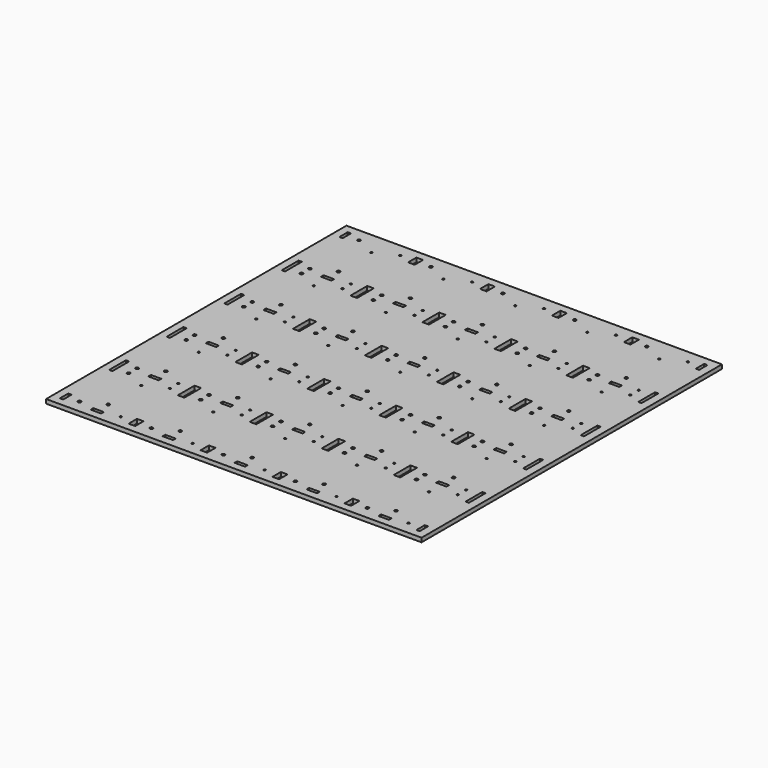
from build123d import *

# Parameters (mm, degrees)
SKETCH_W                      = 365.8
SKETCH_H                      = 365.8
PAD_DEPTH                     = 4
SKETCH001_R                   = 1.5
SKETCH001_R_2                 = 1
POCKET_DEPTH                  = 1038.67057
SKETCH001_LINEARPATTERN_2_R   = 1.5
SKETCH001_LINEARPATTERN_2_R_2 = 1
POCKET_LINEARPATTERN_2_DEPTH  = 1038.67057
SKETCH001_LINEARPATTERN_3_R   = 1.5
SKETCH001_LINEARPATTERN_3_R_2 = 1
POCKET_LINEARPATTERN_3_DEPTH  = 1038.67057
SKETCH001_LINEARPATTERN_4_R   = 1.5
SKETCH001_LINEARPATTERN_4_R_2 = 1
POCKET_LINEARPATTERN_4_DEPTH  = 1038.67057
SKETCH001_LINEARPATTERN_5_R   = 1.5
SKETCH001_LINEARPATTERN_5_R_2 = 1
POCKET_LINEARPATTERN_5_DEPTH  = 1038.67057
LINEARPATTERN001_COUNT        = 5
LINEARPATTERN001_PITCH        = 70.1


with BuildPart() as part:
    # Sketch → Pad (new body)
    with BuildSketch(Plane.XY):
        with Locations((182.9, 182.9)):
            Rectangle(SKETCH_W, SKETCH_H)
    extrude(amount=PAD_DEPTH)

    # Sketch001 (on Face6 of Pad) → Pocket (cut, through all)
    with BuildSketch(Plane.XY.offset(4)):
        with Locations((22.5, 12.6)):
            Circle(SKETCH001_R)
        with Locations((42.55, 22.5)):
            Circle(SKETCH001_R)
        with Locations((22.5, 72.5)):
            Circle(SKETCH001_R)
        with Locations((62.6, 72.5)):
            Circle(SKETCH001_R_2)
        with Locations((62.6, 12.6)):
            Circle(SKETCH001_R_2)
        with Locations((42.55, 62.6)):
            Circle(SKETCH001_R_2)
        Polygon((7.5, 77.6), (10.7, 77.6), (10.7, 67.4), (7.5, 67.4), (7.5, 72.5), align=None)
        Polygon((7.5, 7.5), (10.7, 7.5), (10.7, 17.7), (7.5, 17.7), (7.5, 12.6), align=None)
        Polygon((77.6, 77.6), (74.4, 77.6), (74.4, 67.4), (77.6, 67.4), (77.6, 72.5), align=None)
        Polygon((77.6, 7.5), (74.4, 7.5), (74.4, 17.7), (77.6, 17.7), (77.6, 12.6), align=None)
        Polygon((37.45, 10.7), (47.65, 10.7), (47.65, 7.5), (42.55, 7.5), (37.45, 7.5), align=None)
    pocket = extrude(amount=-POCKET_DEPTH, mode=Mode.SUBTRACT)

    # Sketch001 LinearPattern 2 → Pocket LinearPattern 2 (cut, through all)
    with BuildSketch(Plane(origin=(70.1, 0, 4), x_dir=(1, 0, 0), z_dir=(0, 0, 1))):
        with Locations((22.5, 12.6)):
            Circle(SKETCH001_LINEARPATTERN_2_R)
        with Locations((42.55, 22.5)):
            Circle(SKETCH001_LINEARPATTERN_2_R)
        with Locations((22.5, 72.5)):
            Circle(SKETCH001_LINEARPATTERN_2_R)
        with Locations((62.6, 72.5)):
            Circle(SKETCH001_LINEARPATTERN_2_R_2)
        with Locations((62.6, 12.6)):
            Circle(SKETCH001_LINEARPATTERN_2_R_2)
        with Locations((42.55, 62.6)):
            Circle(SKETCH001_LINEARPATTERN_2_R_2)
        Polygon((7.5, 77.6), (10.7, 77.6), (10.7, 67.4), (7.5, 67.4), (7.5, 72.5), align=None)
        Polygon((7.5, 7.5), (10.7, 7.5), (10.7, 17.7), (7.5, 17.7), (7.5, 12.6), align=None)
        Polygon((77.6, 77.6), (74.4, 77.6), (74.4, 67.4), (77.6, 67.4), (77.6, 72.5), align=None)
        Polygon((77.6, 7.5), (74.4, 7.5), (74.4, 17.7), (77.6, 17.7), (77.6, 12.6), align=None)
        Polygon((37.45, 10.7), (47.65, 10.7), (47.65, 7.5), (42.55, 7.5), (37.45, 7.5), align=None)
    pocket_linearpattern_2 = extrude(amount=-POCKET_LINEARPATTERN_2_DEPTH, mode=Mode.SUBTRACT)

    # Sketch001 LinearPattern 3 → Pocket LinearPattern 3 (cut, through all)
    with BuildSketch(Plane(origin=(140.2, 0, 4), x_dir=(1, 0, 0), z_dir=(0, 0, 1))):
        with Locations((22.5, 12.6)):
            Circle(SKETCH001_LINEARPATTERN_3_R)
        with Locations((42.55, 22.5)):
            Circle(SKETCH001_LINEARPATTERN_3_R)
        with Locations((22.5, 72.5)):
            Circle(SKETCH001_LINEARPATTERN_3_R)
        with Locations((62.6, 72.5)):
            Circle(SKETCH001_LINEARPATTERN_3_R_2)
        with Locations((62.6, 12.6)):
            Circle(SKETCH001_LINEARPATTERN_3_R_2)
        with Locations((42.55, 62.6)):
            Circle(SKETCH001_LINEARPATTERN_3_R_2)
        Polygon((7.5, 77.6), (10.7, 77.6), (10.7, 67.4), (7.5, 67.4), (7.5, 72.5), align=None)
        Polygon((7.5, 7.5), (10.7, 7.5), (10.7, 17.7), (7.5, 17.7), (7.5, 12.6), align=None)
        Polygon((77.6, 77.6), (74.4, 77.6), (74.4, 67.4), (77.6, 67.4), (77.6, 72.5), align=None)
        Polygon((77.6, 7.5), (74.4, 7.5), (74.4, 17.7), (77.6, 17.7), (77.6, 12.6), align=None)
        Polygon((37.45, 10.7), (47.65, 10.7), (47.65, 7.5), (42.55, 7.5), (37.45, 7.5), align=None)
    pocket_linearpattern_3 = extrude(amount=-POCKET_LINEARPATTERN_3_DEPTH, mode=Mode.SUBTRACT)

    # Sketch001 LinearPattern 4 → Pocket LinearPattern 4 (cut, through all)
    with BuildSketch(Plane(origin=(210.3, 0, 4), x_dir=(1, 0, 0), z_dir=(0, 0, 1))):
        with Locations((22.5, 12.6)):
            Circle(SKETCH001_LINEARPATTERN_4_R)
        with Locations((42.55, 22.5)):
            Circle(SKETCH001_LINEARPATTERN_4_R)
        with Locations((22.5, 72.5)):
            Circle(SKETCH001_LINEARPATTERN_4_R)
        with Locations((62.6, 72.5)):
            Circle(SKETCH001_LINEARPATTERN_4_R_2)
        with Locations((62.6, 12.6)):
            Circle(SKETCH001_LINEARPATTERN_4_R_2)
        with Locations((42.55, 62.6)):
            Circle(SKETCH001_LINEARPATTERN_4_R_2)
        Polygon((7.5, 77.6), (10.7, 77.6), (10.7, 67.4), (7.5, 67.4), (7.5, 72.5), align=None)
        Polygon((7.5, 7.5), (10.7, 7.5), (10.7, 17.7), (7.5, 17.7), (7.5, 12.6), align=None)
        Polygon((77.6, 77.6), (74.4, 77.6), (74.4, 67.4), (77.6, 67.4), (77.6, 72.5), align=None)
        Polygon((77.6, 7.5), (74.4, 7.5), (74.4, 17.7), (77.6, 17.7), (77.6, 12.6), align=None)
        Polygon((37.45, 10.7), (47.65, 10.7), (47.65, 7.5), (42.55, 7.5), (37.45, 7.5), align=None)
    pocket_linearpattern_4 = extrude(amount=-POCKET_LINEARPATTERN_4_DEPTH, mode=Mode.SUBTRACT)

    # Sketch001 LinearPattern 5 → Pocket LinearPattern 5 (cut, through all)
    with BuildSketch(Plane(origin=(280.4, 0, 4), x_dir=(1, 0, 0), z_dir=(0, 0, 1))):
        with Locations((22.5, 12.6)):
            Circle(SKETCH001_LINEARPATTERN_5_R)
        with Locations((42.55, 22.5)):
            Circle(SKETCH001_LINEARPATTERN_5_R)
        with Locations((22.5, 72.5)):
            Circle(SKETCH001_LINEARPATTERN_5_R)
        with Locations((62.6, 72.5)):
            Circle(SKETCH001_LINEARPATTERN_5_R_2)
        with Locations((62.6, 12.6)):
            Circle(SKETCH001_LINEARPATTERN_5_R_2)
        with Locations((42.55, 62.6)):
            Circle(SKETCH001_LINEARPATTERN_5_R_2)
        Polygon((7.5, 77.6), (10.7, 77.6), (10.7, 67.4), (7.5, 67.4), (7.5, 72.5), align=None)
        Polygon((7.5, 7.5), (10.7, 7.5), (10.7, 17.7), (7.5, 17.7), (7.5, 12.6), align=None)
        Polygon((77.6, 77.6), (74.4, 77.6), (74.4, 67.4), (77.6, 67.4), (77.6, 72.5), align=None)
        Polygon((77.6, 7.5), (74.4, 7.5), (74.4, 17.7), (77.6, 17.7), (77.6, 12.6), align=None)
        Polygon((37.45, 10.7), (47.65, 10.7), (47.65, 7.5), (42.55, 7.5), (37.45, 7.5), align=None)
    pocket_linearpattern_5 = extrude(amount=-POCKET_LINEARPATTERN_5_DEPTH, mode=Mode.SUBTRACT)

    # LinearPattern001: Pocket, Pocket LinearPattern 2, Pocket LinearPattern 3, Pocket LinearPattern 4, Pocket LinearPattern 5 ×5
    with Locations(*[(0, i * LINEARPATTERN001_PITCH, 0) for i in range(1, LINEARPATTERN001_COUNT)]):
        add(pocket, mode=Mode.SUBTRACT)
        add(pocket_linearpattern_2, mode=Mode.SUBTRACT)
        add(pocket_linearpattern_3, mode=Mode.SUBTRACT)
        add(pocket_linearpattern_4, mode=Mode.SUBTRACT)
        add(pocket_linearpattern_5, mode=Mode.SUBTRACT)


solid = part.part
